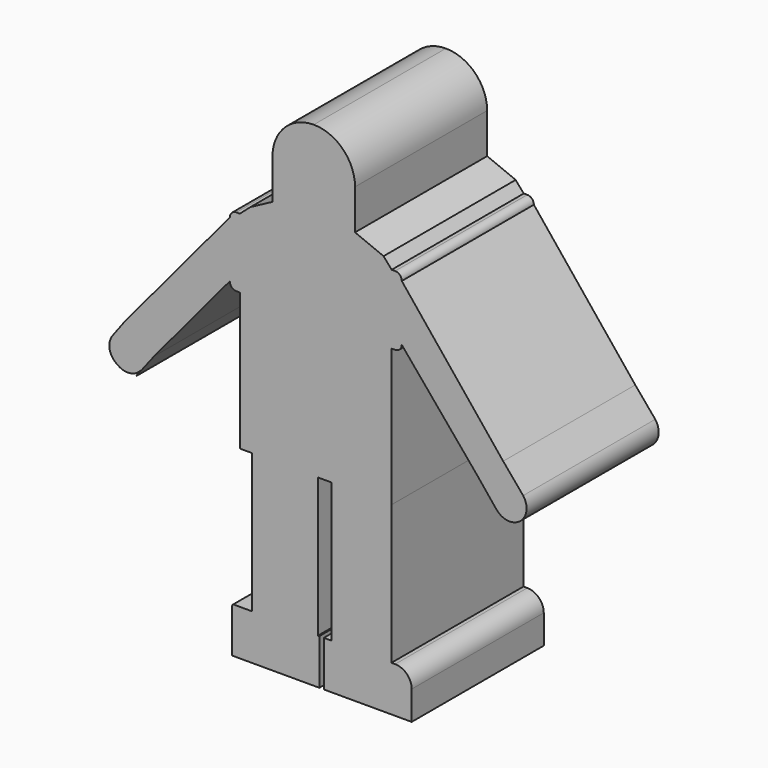
from build123d import *

# Parameters (mm, degrees)
F0_W     = 20.32
F0_H     = 42.8552175019
F0_W_2   = 18.5010901187
F1_DEPTH = 50.8


with BuildPart() as f1:
    # F0 (on Front) → F1 (new body)
    with BuildSketch(Plane.XZ):
        with BuildLine():
            Line((19.7615846992, 50.0709023562), (10.9937762186, 53.6630048046))
            ThreePointArc((10.9937762186, 53.6630048046), (9.505878667, 50.0709023562), (5.9137762186, 48.5830048046))
            Line((5.9137762186, 48.5830048046), (-1.7062237814, 48.5830048046))
            Line((-1.7062237814, 48.5830048046), (-9.3262237814, 48.5830048046))
            ThreePointArc((-9.3262237814, 48.5830048046), (-12.9183262298, 50.0709023562), (-14.4062237814, 53.6630048046))
            Line((-14.4062237814, 53.6630048046), (-21.1631003767, 50.0709023562))
            Line((-21.1631003767, 50.0709023562), (-24.4459839703, 47.2041854043))
            Line((-24.4459839703, 47.2041854043), (-24.4459839703, 25.8544358869))
            Line((-24.4459839703, 25.8544358869), (-24.4459839703, -16.4229627699))
            Line((-24.4459839703, -16.4229627699), (-20.7482980642, -16.4229627699))
            Line((-20.7482980642, -16.4229627699), (-0.4282980642, -16.4229627699))
            Line((-0.4282980642, -16.4229627699), (3.6740194462, -16.4229627699))
            Line((3.6740194462, -16.4229627699), (22.1751095649, -16.4229627699))
            Line((22.1751095649, -16.4229627699), (22.2648918826, -16.4229627699))
            Line((22.2648918826, -16.4229627699), (22.2648918826, 25.8544358869))
            Line((22.2648918826, 25.8544358869), (22.2648918826, 47.2041854043))
            Line((22.2648918826, 47.2041854043), (19.7615846992, 50.0709023562))
        make_face()
        with BuildLine():
            Line((23.3347140718, 47.2041854043), (22.2648918826, 47.2041854043))
            Line((22.2648918826, 47.2041854043), (22.2648918826, 25.8544358869))
            Line((22.2648918826, 25.8544358869), (23.3347140718, 25.8544358869))
            ThreePointArc((23.3347140718, 25.8544358869), (24.7715550512, 26.4495949076), (25.3667140718, 27.8864358869))
            Line((25.3667140718, 27.8864358869), (25.3667140718, 45.1721854043))
            ThreePointArc((25.3667140718, 45.1721854043), (24.7715550512, 46.6090263836), (23.3347140718, 47.2041854043))
        make_face()
        Polygon((56.5698947954, 6.5076726805), (25.3667140718, 45.1721854043), (25.3667140718, 27.8864358869), (48.6546903849, 0), (52.1676763892, 2.9549777973), align=None)
        with BuildLine():
            Line((62.7134148699, -0.7986944953), (56.5698947954, 6.5076726805))
            Line((56.5698947954, 6.5076726805), (52.1676763892, 2.9549777973))
            Line((52.1676763892, 2.9549777973), (48.6546903849, 0))
            Line((48.6546903849, 0), (54.4804789865, -7.2188562926))
            ThreePointArc((54.4804789865, -7.2188562926), (61.7538678556, -8.0570733036), (62.7134148699, -0.7986944953))
        make_face()
        with BuildLine():
            Line((-24.4459839703, 25.8544358869), (-24.4459839703, 47.2041854043))
            Line((-24.4459839703, 47.2041854043), (-25.5158065703, 47.2041854043))
            ThreePointArc((-25.5158065703, 47.2041854043), (-26.9526475496, 46.6090263836), (-27.5478065703, 45.1721854043))
            Line((-27.5478065703, 45.1721854043), (-27.5478065703, 27.8864358869))
            ThreePointArc((-27.5478065703, 27.8864358869), (-26.9526475496, 26.4495949076), (-25.5158065703, 25.8544358869))
            Line((-25.5158065703, 25.8544358869), (-24.4459839703, 25.8544358869))
        make_face()
        Polygon((-27.5478065703, 27.8864358869), (-27.5478065703, 45.1721854043), (-59.8365601521, 6.5076726805), (-50.8357828875, 0), align=None)
        with BuildLine():
            Line((-50.8357828875, 0), (-59.8365601521, 6.5076726805))
            Line((-59.8365601521, 6.5076726805), (-63.5941543789, 1.4677946764))
            ThreePointArc((-63.5941543789, 1.4677946764), (-64.5350303405, -2.3878407212), (-62.4158617427, -5.7434772254))
            Line((-62.4158617427, -5.7434772254), (-61.8365846936, -6.1450817318))
            ThreePointArc((-61.8365846936, -6.1450817318), (-58.0368035716, -6.9689157861), (-54.7674139269, -4.8646034341))
            Line((-54.7674139269, -4.8646034341), (-56.3995838165, -7.2188562926))
            Line((-56.3995838165, -7.2188562926), (-50.8357828875, 0))
        make_face()
        with Locations((-10.5882980642, -37.8505715208)):
            Rectangle(F0_W, F0_H)
        with Locations((12.9245645056, -37.8505715208)):
            Rectangle(F0_W_2, F0_H)
        with BuildLine():
            Line((23.3365580372, -59.2781802717), (22.1751095649, -59.2781802717))
            Line((22.1751095649, -59.2781802717), (3.6740194462, -59.2781802717))
            Line((3.6740194462, -59.2781802717), (1.3876754092, -59.2781802717))
            Line((1.3876754092, -59.2781802717), (1.3876754092, -73.2621923089))
            Line((1.3876754092, -73.2621923089), (28.4165580372, -73.2621923089))
            Line((28.4165580372, -73.2621923089), (28.4165580372, -64.3581802717))
            ThreePointArc((28.4165580372, -64.3581802717), (26.9286604856, -60.7660778233), (23.3365580372, -59.2781802717))
        make_face()
        with BuildLine():
            Line((0, -59.2781802717), (-0.4282980642, -59.2781802717))
            Line((-0.4282980642, -59.2781802717), (-20.7482980642, -59.2781802717))
            Line((-20.7482980642, -59.2781802717), (-26.2982390387, -59.2781802717))
            ThreePointArc((-26.2982390387, -59.2781802717), (-26.6574492835, -59.4269700269), (-26.8062390387, -59.7861802717))
            Line((-26.8062390387, -59.7861802717), (-26.8062390387, -73.2621923089))
            Line((-26.8062390387, -73.2621923089), (0, -73.2621923089))
            Line((0, -73.2621923089), (0, -59.7561709583))
            Line((0, -59.7561709583), (0, -59.2781802717))
        make_face()
        with BuildLine():
            ThreePointArc((5.9137762186, 48.5830048046), (9.505878667, 50.0709023562), (10.9937762186, 53.6630048046))
            Line((10.9937762186, 53.6630048046), (10.9937762186, 55.117353797))
            Line((10.9937762186, 55.117353797), (10.9937762186, 58.5980406803))
            Line((10.9937762186, 58.5980406803), (10.9937762186, 62.3222826543))
            Line((10.9937762186, 62.3222826543), (10.9937762186, 65.9971610492))
            ThreePointArc((10.9937762186, 65.9971610492), (7.2740323397, 74.9774171703), (-1.7062237814, 78.6971610492))
            ThreePointArc((-1.7062237814, 78.6971610492), (-10.6864799025, 74.9774171703), (-14.4062237814, 65.9971610492))
            Line((-14.4062237814, 65.9971610492), (-14.4062237814, 62.3222826543))
            Line((-14.4062237814, 62.3222826543), (-14.4062237814, 58.5980406803))
            Line((-14.4062237814, 58.5980406803), (-14.4062237814, 55.117353797))
            Line((-14.4062237814, 55.117353797), (-14.4062237814, 53.6630048046))
            ThreePointArc((-14.4062237814, 53.6630048046), (-12.9183262298, 50.0709023562), (-9.3262237814, 48.5830048046))
            Line((-9.3262237814, 48.5830048046), (-1.7062237814, 48.5830048046))
            Line((-1.7062237814, 48.5830048046), (5.9137762186, 48.5830048046))
        make_face()
    extrude(amount=F1_DEPTH)


solid = f1.part
